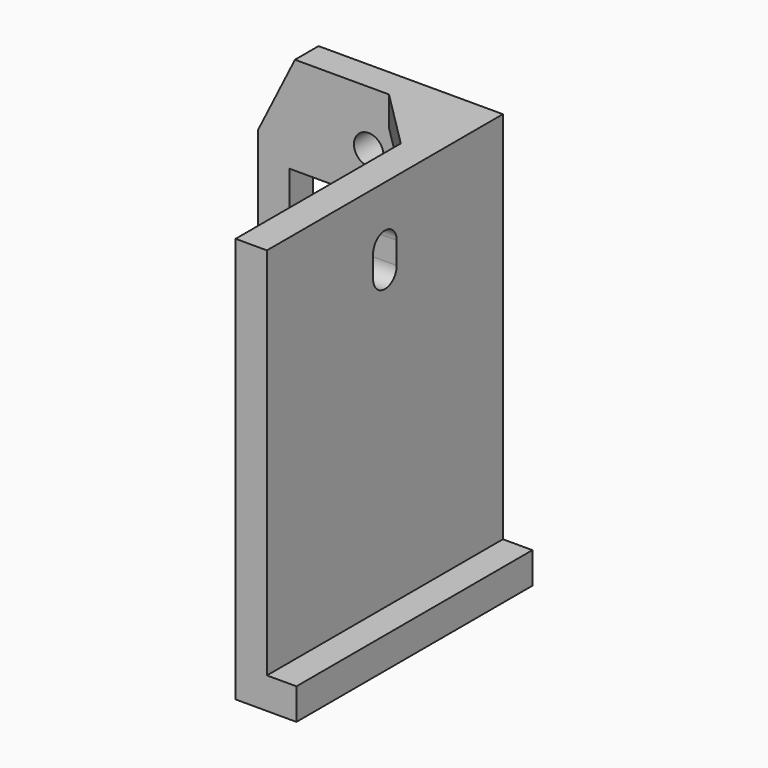
from build123d import *

# Parameters (mm, degrees)
F0_W      = 30
F0_H      = 55
F0_R      = 2
F0_W_2    = 21.5
F0_H_2    = 28.5
F1_DEPTH  = 4
F3_DEPTH  = 36
F5_DEPTH  = 4
F7_W      = 4
F7_H      = 4.25
F8_DEPTH  = 4
F10_DEPTH = 4
F11_DEPTH = 8.251
F12_SIZE2 = 10
F12_SIZE  = 5


with BuildPart() as f1:
    # F0 (on Front) → F1 (new body)
    with BuildSketch(Plane.XZ):
        with Locations((-15, 27.5)):
            Rectangle(F0_W, F0_H)
        with Locations((-15, 7.5)):
            Circle(F0_R, mode=Mode.SUBTRACT)
        with Locations((-15, 27.5)):
            Rectangle(F0_W_2, F0_H_2, mode=Mode.SUBTRACT)
        with Locations((-15, 47.5)):
            Circle(F0_R, mode=Mode.SUBTRACT)
    extrude(amount=F1_DEPTH)

    # F2 (on face) → F3 (join)
    with BuildSketch(Plane.XZ.offset(4)):
        Polygon((0, 4.25), (0, 55), (-4.25, 55), (-4.25, 0), (4, 0), (4, 4.25), align=None)
    extrude(amount=F3_DEPTH)

    # F4 (on face) → F5 (join)
    with BuildSketch(Plane.XY.offset(55)):
        Polygon((-4.25, -12), (-4.25, -4), (-12.25, -4), align=None)
    extrude(amount=-F5_DEPTH)

    # F7 (on face) → F8 (join)
    with BuildSketch(Plane(origin=(0, -4, 0), x_dir=(-1, 0, 0), z_dir=(0, 1, 0))):
        with Locations((-2, 2.125)):
            Rectangle(F7_W, F7_H)
    extrude(amount=F8_DEPTH)

    # F9 (on face) → F10 (join)
    with BuildSketch(Plane(origin=(0, 0, 0), x_dir=(1, 0, 0), z_dir=(0, 0, -1))):
        Polygon((-4.25, 12), (-12.25, 4), (-4.25, 4), align=None)
    extrude(amount=-F10_DEPTH)

    # F6 (on face) → F11 (cut, through all)
    with BuildSketch(Plane(origin=(-4.25, 0, 0), x_dir=(0, -1, 0), z_dir=(-1, 0, 0))):
        with BuildLine():
            ThreePointArc((22, 47.25), (20, 49.25), (18, 47.25))
            Line((18, 47.25), (18, 44.25))
            ThreePointArc((18, 44.25), (20, 42.25), (22, 44.25))
            Line((22, 44.25), (22, 47.25))
        make_face()
    extrude(amount=-F11_DEPTH, mode=Mode.SUBTRACT)

    # F12
    f12_edges = [f1.edges().sort_by_distance(p)[0] for p in [
        (-30, -2, 0),
        (-30, -2, 55),
    ]]
    chamfer(f12_edges, length=F12_SIZE, length2=F12_SIZE2)


solid = f1.part
